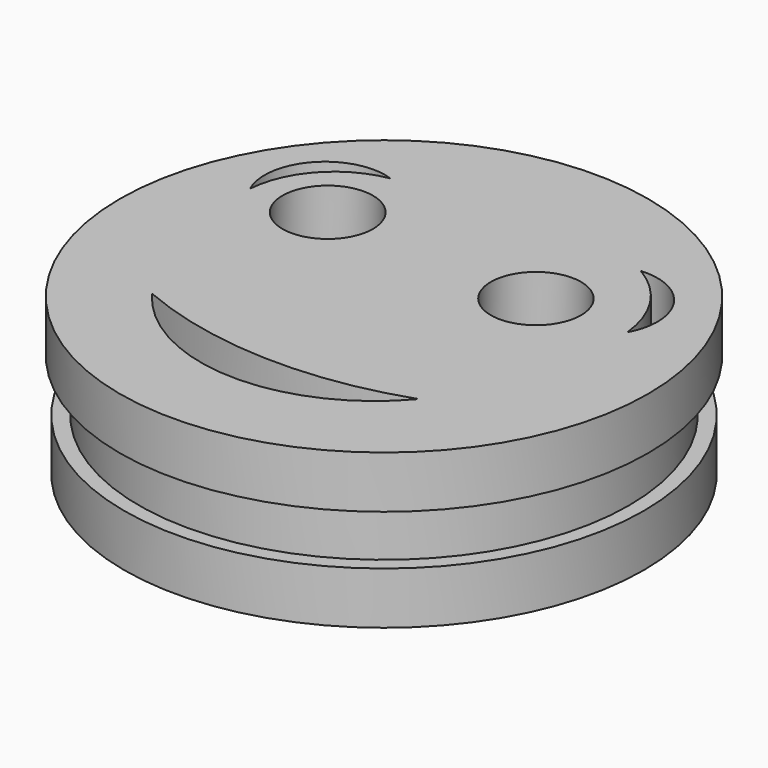
from build123d import *

# Parameters (mm, degrees)
F0_R     = 25.296386
F0_R_2   = 3.975729
F0_R_3   = 3.738033
F1_DEPTH = 5.08
F2_R     = 23.860999
F3_DEPTH = 5.08
F4_R     = 25.7147
F4_R_2   = 4.402346
F4_R_3   = 4.391337
F4_R_4   = 23.860999
F5_DEPTH = 5.08


with BuildPart() as f1:
    # F0 (on Top) → F1 (new body)
    with BuildSketch(Plane.XY):
        Circle(F0_R)
        with BuildLine():
            ThreePointArc((-13.1572, -9.6012), (1.548091, -7.844396), (16.1798, -10.1346))
            Line((16.1798, -10.1346), (-13.1572, -9.6012))
        make_face(mode=Mode.SUBTRACT)
        with Locations((-11.3792, 8.7122)):
            Circle(F0_R_2, mode=Mode.SUBTRACT)
        with BuildLine():
            ThreePointArc((-16.535399, 13.1572), (-14.273934, 18.413269), (-8.7122, 17.068801))
            ThreePointArc((-8.7122, 17.068801), (-13.414217, 16.693836), (-16.535399, 13.1572))
        make_face(mode=Mode.SUBTRACT)
        with Locations((7.467599, 9.2456)):
            Circle(F0_R_3, mode=Mode.SUBTRACT)
        with BuildLine():
            ThreePointArc((8.1788, 17.068801), (12.585417, 17.173413), (14.4018, 13.1572))
            ThreePointArc((14.4018, 13.1572), (11.840704, 15.988644), (8.1788, 17.068801))
        make_face(mode=Mode.SUBTRACT)
    extrude(amount=F1_DEPTH)


with BuildPart() as f3:
    # F2 (on face) → F3 (new body)
    with BuildSketch(Plane.XY.offset(5.08)):
        Circle(F2_R)
    extrude(amount=F3_DEPTH)

    # F4 (on face) → F5 (join)
    with BuildSketch(Plane.XY.offset(10.16)):
        Circle(F4_R)
        with BuildLine():
            ThreePointArc((12.623799, -11.557001), (-0.927497, -17.601402), (-14.046201, -10.668001))
            ThreePointArc((-14.046201, -10.668001), (-0.793935, -13.594537), (12.623799, -11.557001))
        make_face(mode=Mode.SUBTRACT)
        with BuildLine():
            ThreePointArc((-19.024599, 7.4676), (-18.033072, 13.885616), (-11.7348, 15.4686))
            ThreePointArc((-11.7348, 15.4686), (-16.776449, 12.740694), (-19.024599, 7.4676))
        make_face(mode=Mode.SUBTRACT)
        with Locations((-11.991516, 8.138589)):
            Circle(F4_R_2, mode=Mode.SUBTRACT)
        with Locations((9.2456, 6.9342)):
            Circle(F4_R_3, mode=Mode.SUBTRACT)
        with BuildLine():
            ThreePointArc((12.623799, 15.4686), (17.931254, 12.849279), (18.1356, 6.9342))
            ThreePointArc((18.1356, 6.9342), (16.414225, 11.869532), (12.623799, 15.4686))
        make_face(mode=Mode.SUBTRACT)
        Circle(F4_R_4)
        with BuildLine():
            ThreePointArc((12.623799, -11.557001), (-0.927497, -17.601402), (-14.046201, -10.668001))
            ThreePointArc((-14.046201, -10.668001), (-0.793935, -13.594537), (12.623799, -11.557001))
        make_face(mode=Mode.SUBTRACT)
        with BuildLine():
            ThreePointArc((-19.024599, 7.4676), (-18.033072, 13.885616), (-11.7348, 15.4686))
            ThreePointArc((-11.7348, 15.4686), (-16.776449, 12.740694), (-19.024599, 7.4676))
        make_face(mode=Mode.SUBTRACT)
        with Locations((-11.991516, 8.138589)):
            Circle(F4_R_2, mode=Mode.SUBTRACT)
        with Locations((9.2456, 6.9342)):
            Circle(F4_R_3, mode=Mode.SUBTRACT)
        with BuildLine():
            ThreePointArc((12.623799, 15.4686), (17.931254, 12.849279), (18.1356, 6.9342))
            ThreePointArc((18.1356, 6.9342), (16.414225, 11.869532), (12.623799, 15.4686))
        make_face(mode=Mode.SUBTRACT)
    extrude(amount=F5_DEPTH)


solid = Compound([f1.part, f3.part])
